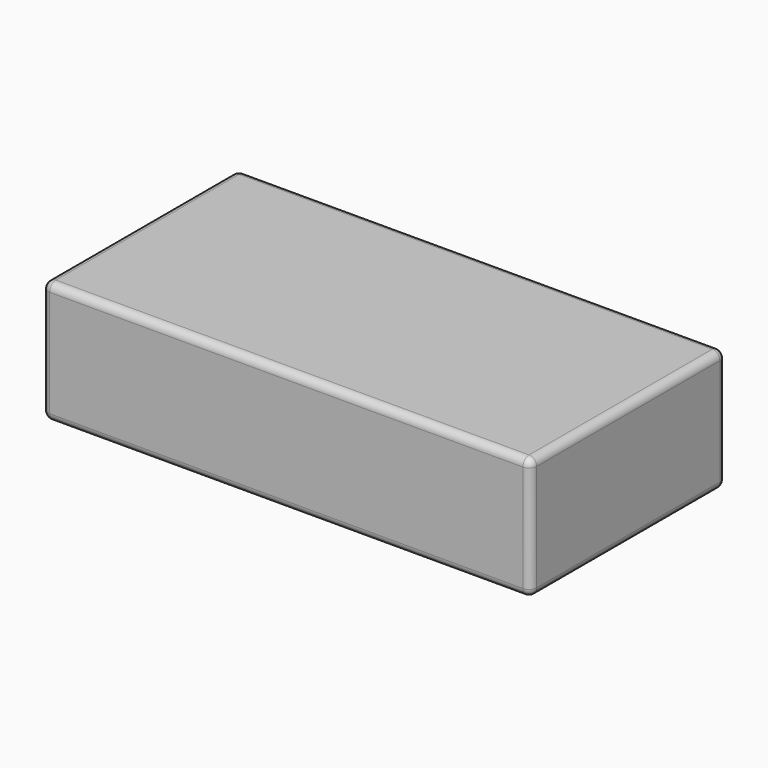
from build123d import *

# Parameters (mm, degrees)
F1_DEPTH = 50.8
F2_R     = 3.175
F3_R     = 3.175
F4_DEPTH = 2.032
F4_TAPER = 45


with BuildPart() as f1:
    # F0 (on Top) → F1 (new body)
    with BuildSketch(Plane.XY):
        with BuildLine():
            ThreePointArc((0, 3.175), (0.9299359697, 0.9299359697), (3.175, 0))
            Line((3.175, 0), (200.025, 0))
            ThreePointArc((200.025, 0), (202.2700640303, 0.9299359697), (203.2, 3.175))
            Line((203.2, 3.175), (203.2, 98.425))
            ThreePointArc((203.2, 98.425), (202.2700640303, 100.6700640303), (200.025, 101.6))
            Line((200.025, 101.6), (3.175, 101.6))
            ThreePointArc((3.175, 101.6), (0.9299359697, 100.6700640303), (0, 98.425))
            Line((0, 98.425), (0, 3.175))
        make_face()
        with BuildLine():
            ThreePointArc((12.7000001431, 76.1999998569), (16.419744022, 85.180255978), (25.4000001431, 88.8999998569))
            Line((25.4000001431, 88.8999998569), (177.7999998569, 88.8999998569))
            ThreePointArc((177.7999998569, 88.8999998569), (186.780255978, 85.180255978), (190.4999998569, 76.1999998569))
            Line((190.4999998569, 76.1999998569), (190.4999998569, 25.4000001431))
            ThreePointArc((190.4999998569, 25.4000001431), (186.780255978, 16.419744022), (177.7999998569, 12.7000001431))
            Line((177.7999998569, 12.7000001431), (25.4000001431, 12.7000001431))
            ThreePointArc((25.4000001431, 12.7000001431), (16.419744022, 16.419744022), (12.7000001431, 25.4000001431))
            Line((12.7000001431, 25.4000001431), (12.7000001431, 76.1999998569))
        make_face(mode=Mode.SUBTRACT)
        with BuildLine():
            Line((177.7999998569, 88.8999998569), (25.4000001431, 88.8999998569))
            ThreePointArc((25.4000001431, 88.8999998569), (16.419744022, 85.180255978), (12.7000001431, 76.1999998569))
            Line((12.7000001431, 76.1999998569), (12.7000001431, 25.4000001431))
            ThreePointArc((12.7000001431, 25.4000001431), (16.419744022, 16.419744022), (25.4000001431, 12.7000001431))
            Line((25.4000001431, 12.7000001431), (177.7999998569, 12.7000001431))
            ThreePointArc((177.7999998569, 12.7000001431), (186.780255978, 16.419744022), (190.4999998569, 25.4000001431))
            Line((190.4999998569, 25.4000001431), (190.4999998569, 76.1999998569))
            ThreePointArc((190.4999998569, 76.1999998569), (186.780255978, 85.180255978), (177.7999998569, 88.8999998569))
        make_face()
    extrude(amount=F1_DEPTH)

    # F2
    f2_edges = [f1.edges().sort_by_distance(p)[0] for p in [
        (0, 50.8, 0),
        (0.929936, 0.929936, 0),
        (101.6, 0, 0),
        (202.270064, 0.929936, 0),
        (203.2, 50.8, 0),
        (202.270064, 100.670064, 0),
        (101.6, 101.6, 0),
        (0.929936, 100.670064, 0),
    ]]
    fillet(f2_edges, radius=F2_R)

    # F3
    f3_edges = [f1.edges().sort_by_distance(p)[0] for p in [
        (0, 50.8, 50.8),
        (0.929936, 0.929936, 50.8),
        (101.6, 0, 50.8),
        (202.270064, 0.929936, 50.8),
        (203.2, 50.8, 50.8),
        (202.270064, 100.670064, 50.8),
        (101.6, 101.6, 50.8),
        (0.929936, 100.670064, 50.8),
    ]]
    fillet(f3_edges, radius=F3_R)

    # F0 (on Top) → F4 (cut)
    with BuildSketch(Plane.XY):
        with BuildLine():
            Line((177.7999998569, 88.8999998569), (25.4000001431, 88.8999998569))
            ThreePointArc((25.4000001431, 88.8999998569), (16.419744022, 85.180255978), (12.7000001431, 76.1999998569))
            Line((12.7000001431, 76.1999998569), (12.7000001431, 25.4000001431))
            ThreePointArc((12.7000001431, 25.4000001431), (16.419744022, 16.419744022), (25.4000001431, 12.7000001431))
            Line((25.4000001431, 12.7000001431), (177.7999998569, 12.7000001431))
            ThreePointArc((177.7999998569, 12.7000001431), (186.780255978, 16.419744022), (190.4999998569, 25.4000001431))
            Line((190.4999998569, 25.4000001431), (190.4999998569, 76.1999998569))
            ThreePointArc((190.4999998569, 76.1999998569), (186.780255978, 85.180255978), (177.7999998569, 88.8999998569))
        make_face()
    extrude(amount=F4_DEPTH, taper=F4_TAPER, mode=Mode.SUBTRACT)


solid = f1.part
